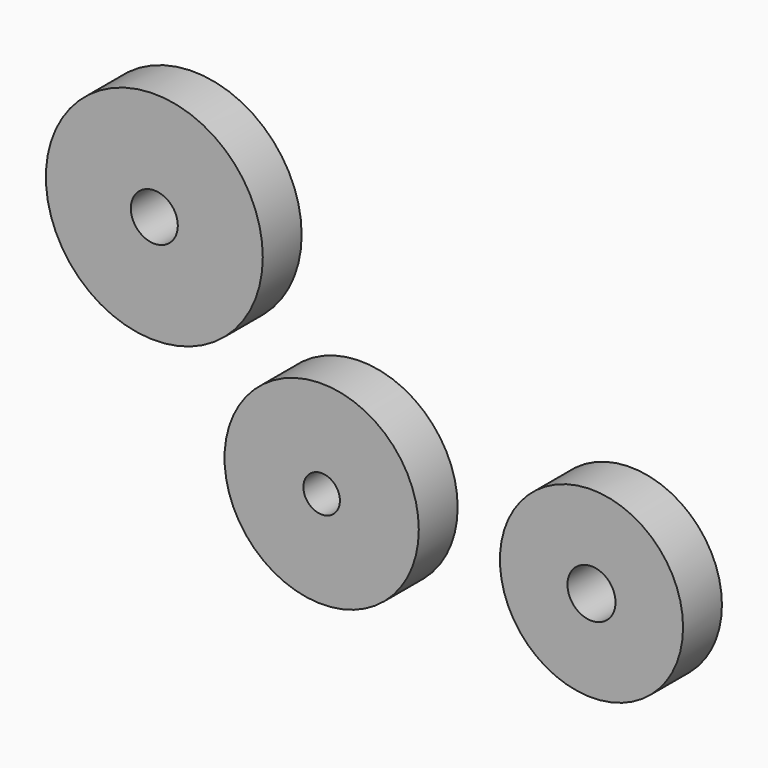
from build123d import *

# Parameters (mm, degrees)
F0_R     = 50.8
F0_R_2   = 9.545298
F1_DEPTH = 25.4
F2_R     = 56.720042
F2_R_2   = 12.285001
F3_DEPTH = 25.4
F4_R     = 47.892054
F4_R_2   = 12.570601
F5_DEPTH = 25.4
F6_R     = 10.363849
F7_DEPTH = 25.4
F8_R     = 6.472703
F9_DEPTH = 25.4


with BuildPart() as f1:
    # F0 (on Front) → F1 (new body)
    with BuildSketch(Plane.XZ):
        Circle(F0_R)
        Circle(F0_R_2, mode=Mode.SUBTRACT)
    extrude(amount=F1_DEPTH)


with BuildPart() as f3:
    # F2 (on Front) → F3 (new body)
    with BuildSketch(Plane.XZ):
        with Locations((-87.511577, 98.971069)):
            Circle(F2_R)
        with Locations((-87.511577, 98.971069)):
            Circle(F2_R_2, mode=Mode.SUBTRACT)
    extrude(amount=F3_DEPTH)


with BuildPart() as f5:
    # F4 (on Front) → F5 (new body)
    with BuildSketch(Plane.XZ):
        with Locations((141.109124, 0)):
            Circle(F4_R)
        with Locations((141.109124, 0)):
            Circle(F4_R_2, mode=Mode.SUBTRACT)
    extrude(amount=F5_DEPTH)


with BuildPart() as f7:
    # F6 (on face) → F7 (new body)
    with BuildSketch(Plane(origin=(0, 0, 0), x_dir=(-1, 0, 0), z_dir=(0, 1, 0))):
        with Locations((-141.109124, 0)):
            Circle(F6_R)
    extrude(amount=F7_DEPTH)


with BuildPart() as f9:
    # F8 (on face) → F9 (new body)
    with BuildSketch(Plane(origin=(0, 0, 0), x_dir=(-1, 0, 0), z_dir=(0, 1, 0))):
        Circle(F8_R)
    extrude(amount=F9_DEPTH)


solid = Compound([f1.part, f3.part, f5.part, f7.part, f9.part])
